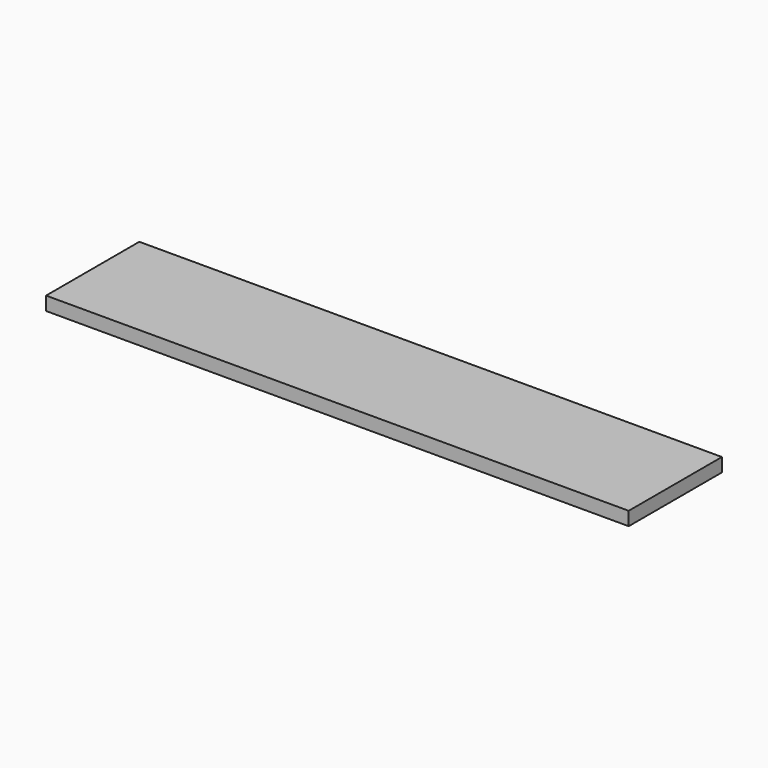
from build123d import *

# Parameters (mm, degrees)
SKETCH_W  = 300
SKETCH_H  = 35
PAD_DEPTH = 1500


with BuildPart() as part:
    # Sketch → Pad (new body)
    with BuildSketch(Plane.YZ):
        with Locations((-150, 17.5)):
            Rectangle(SKETCH_W, SKETCH_H)
    extrude(amount=PAD_DEPTH)


solid = part.part
